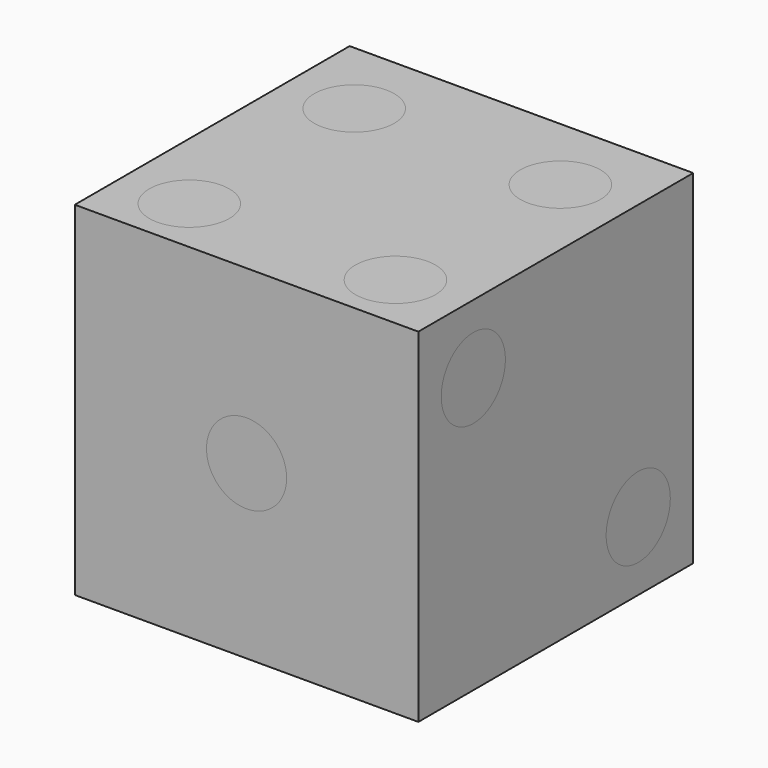
from build123d import *

# Parameters (mm, degrees)
F0_W      = 15
F0_H      = 15
F1_DEPTH  = 15
F2_R      = 1.75
F4_DEPTH  = 0.8
F3_R      = 1.75
F5_DEPTH  = 0.8
F6_R      = 1.75
F7_DEPTH  = 0.8
F8_R      = 1.75
F9_DEPTH  = 0.8
F10_R     = 1.75
F11_DEPTH = 0.8
F12_R     = 1.75
F13_DEPTH = 0.8


with BuildPart() as f1:
    # F0 (on Front) → F1 (new body)
    with BuildSketch(Plane.XZ):
        with Locations((7.5, 7.5)):
            Rectangle(F0_W, F0_H)
    extrude(amount=F1_DEPTH)


with BuildPart() as f4:
    # F2 (on face) → F4 (new body)
    with BuildSketch(Plane.XZ.offset(15)):
        with Locations((7.5, 7.5)):
            Circle(F2_R)
    extrude(amount=-F4_DEPTH)


with BuildPart() as f5:
    # F3 (on face) → F5 (new body)
    with BuildSketch(Plane(origin=(0, 0, 0), x_dir=(-1, 0, 0), z_dir=(0, 1, 0))):
        with Locations((-12, 12)):
            Circle(F3_R)
        with Locations((-12, 7.5)):
            Circle(F3_R)
        with Locations((-12, 3)):
            Circle(F3_R)
        with Locations((-3, 12)):
            Circle(F3_R)
        with Locations((-3, 7.5)):
            Circle(F3_R)
        with Locations((-3, 3)):
            Circle(F3_R)
    extrude(amount=-F5_DEPTH)


with BuildPart() as f7:
    # F6 (on face) → F7 (new body)
    with BuildSketch(Plane.YZ.offset(15)):
        with Locations((-12, 12)):
            Circle(F6_R)
        with Locations((-3, 3)):
            Circle(F6_R)
    extrude(amount=-F7_DEPTH)


with BuildPart() as f9:
    # F8 (on face) → F9 (new body)
    with BuildSketch(Plane(origin=(0, 0, 0), x_dir=(0, -1, 0), z_dir=(-1, 0, 0))):
        with Locations((3, 12)):
            Circle(F8_R)
        with Locations((3, 3)):
            Circle(F8_R)
        with Locations((12, 12)):
            Circle(F8_R)
        with Locations((12, 3)):
            Circle(F8_R)
        with Locations((7.5, 7.5)):
            Circle(F8_R)
    extrude(amount=-F9_DEPTH)


with BuildPart() as f11:
    # F10 (on face) → F11 (new body)
    with BuildSketch(Plane(origin=(0, 0, 0), x_dir=(1, 0, 0), z_dir=(0, 0, -1))):
        with Locations((3, 3.499722)):
            Circle(F10_R)
        with Locations((12, 12.499722)):
            Circle(F10_R)
        with Locations((7.5, 7.999722)):
            Circle(F10_R)
    extrude(amount=-F11_DEPTH)


with BuildPart() as f13:
    # F12 (on face) → F13 (new body)
    with BuildSketch(Plane.XY.offset(15)):
        with Locations((3, -3.499722)):
            Circle(F12_R)
        with Locations((3, -12.499722)):
            Circle(F12_R)
        with Locations((12, -3.499722)):
            Circle(F12_R)
        with Locations((12, -12.499722)):
            Circle(F12_R)
    extrude(amount=-F13_DEPTH)


with BuildPart() as f1_1:
    add(f1.part)

    # F14: cut F4, F5, F7, F9, F11, F13
    add(f4.part, mode=Mode.SUBTRACT)
    add(f5.part, mode=Mode.SUBTRACT)
    add(f7.part, mode=Mode.SUBTRACT)
    add(f9.part, mode=Mode.SUBTRACT)
    add(f11.part, mode=Mode.SUBTRACT)
    add(f13.part, mode=Mode.SUBTRACT)


solid = Compound([f4.part, f5.part, f7.part, f9.part, f11.part, f13.part, f1_1.part])
